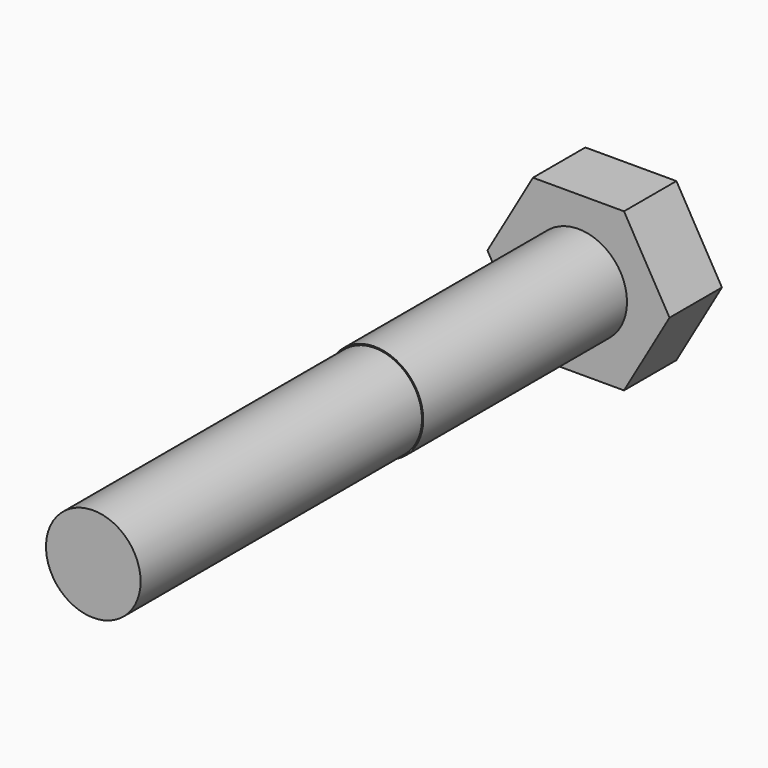
from build123d import *

# Parameters (mm, degrees)
F0_R     = 4
F1_DEPTH = 50
F2_DEPTH = 5.4
F3_R     = 4
F3_R_2   = 3.9
F4_DEPTH = 29


with BuildPart() as f1:
    # F0 (on Front) → F1 (new body)
    with BuildSketch(Plane.XZ):
        Circle(F0_R)
    extrude(amount=F1_DEPTH)

    # F0 (on Front) → F2 (join)
    with BuildSketch(Plane.XZ):
        Polygon((3.7527767497, 6.5), (-3.7527767497, 6.5), (-7.5055534995, 0), (-3.7527767497, -6.5), (3.7527767497, -6.5), (7.5055534995, 0), align=None)
        Circle(F0_R, mode=Mode.SUBTRACT)
        Circle(F0_R)
    extrude(amount=-F2_DEPTH)

    # F3 (on face) → F4 (cut)
    with BuildSketch(Plane.XZ.offset(50)):
        Circle(F3_R)
        Circle(F3_R_2, mode=Mode.SUBTRACT)
    extrude(amount=-F4_DEPTH, mode=Mode.SUBTRACT)


solid = f1.part
